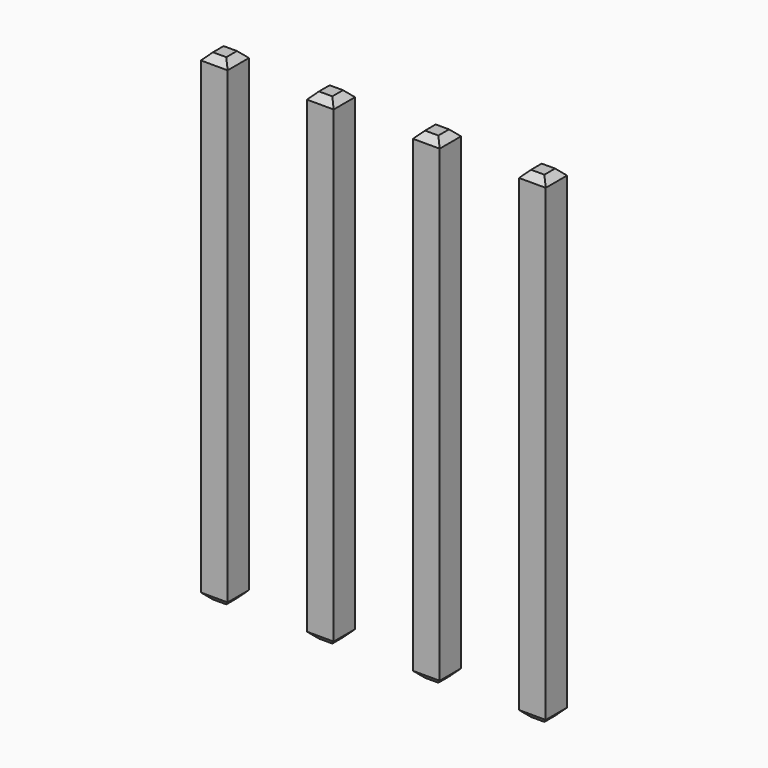
from build123d import *

# Parameters (mm, degrees)
SKETCH230_W       = 0.64
SKETCH230_H       = 11.54
PAD086_DEPTH      = 0.32
PAD086_DEPTH_BACK = 0.32
CHAMFER047_SIZE   = 0.16
ARRAY022_X_COUNT  = 4
ARRAY022_X_PITCH  = 2.54


with BuildPart() as part:
    # Sketch230 → Pad086 (new body, two sides)
    with BuildSketch(Plane.XZ) as pad086_sk:
        with Locations((0, 2.77)):
            Rectangle(SKETCH230_W, SKETCH230_H)
    extrude(amount=PAD086_DEPTH)
    extrude(pad086_sk.sketch, amount=-PAD086_DEPTH_BACK)

    # Chamfer047
    chamfer047_edges = [part.edges().sort_by_distance(p)[0] for p in [
        (0.32, 0, 8.54),
        (-0.32, 0, 8.54),
        (0, 0.32, 8.54),
        (0, -0.32, 8.54),
        (-0.32, 0, -3),
        (0.32, 0, -3),
        (0, 0.32, -3),
        (0, -0.32, -3),
    ]]
    chamfer(chamfer047_edges, length=CHAMFER047_SIZE)

    # Array022 X: part ×4


with BuildPart() as part_1:
    add(part.part)
    with Locations(*[(i * ARRAY022_X_PITCH, 0, 0) for i in range(1, ARRAY022_X_COUNT)]):
        add(part.part)


solid = part_1.part
